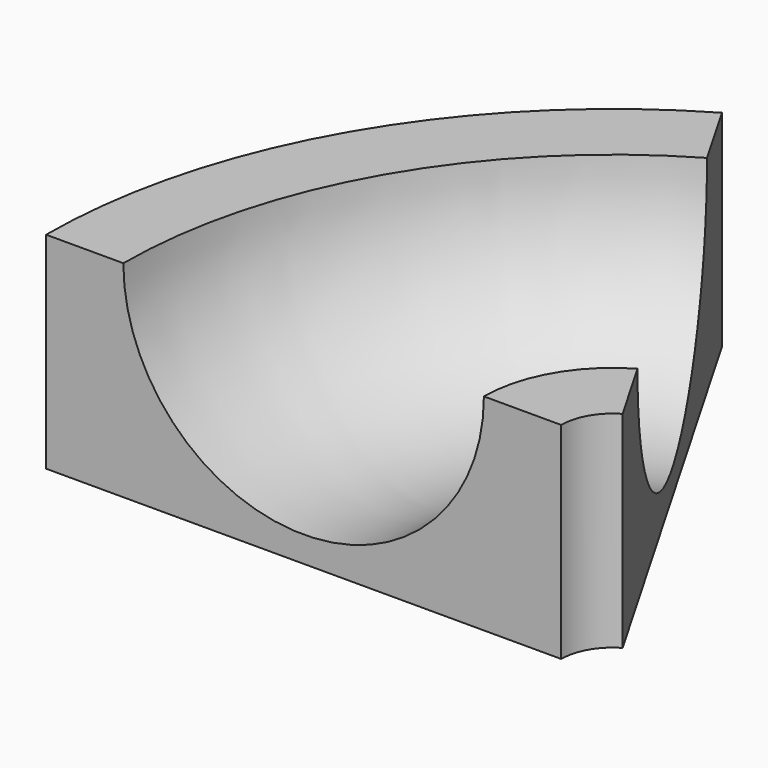
from build123d import *

# Parameters (mm, degrees)
F1_ANGLE = 60


with BuildPart() as f1:
    # F0 (on Front) → F1 (revolve)
    with BuildSketch(Plane.XZ):
        with BuildLine():
            Line((-50, 20.325956), (-50, -19.674044))
            Line((-50, -19.674044), (0, -19.674044))
            Line((0, -19.674044), (50, -19.674044))
            Line((50, -19.674044), (50, 20.325956))
            Line((50, 20.325956), (35, 20.325956))
            ThreePointArc((35, 20.325956), (0, -14.674044), (-35, 20.325956))
            Line((-35, 20.325956), (-50, 20.325956))
        make_face()
    revolve(axis=Axis((60, 0, 1.129986), (0, 0, -1)), revolution_arc=F1_ANGLE)


solid = f1.part
